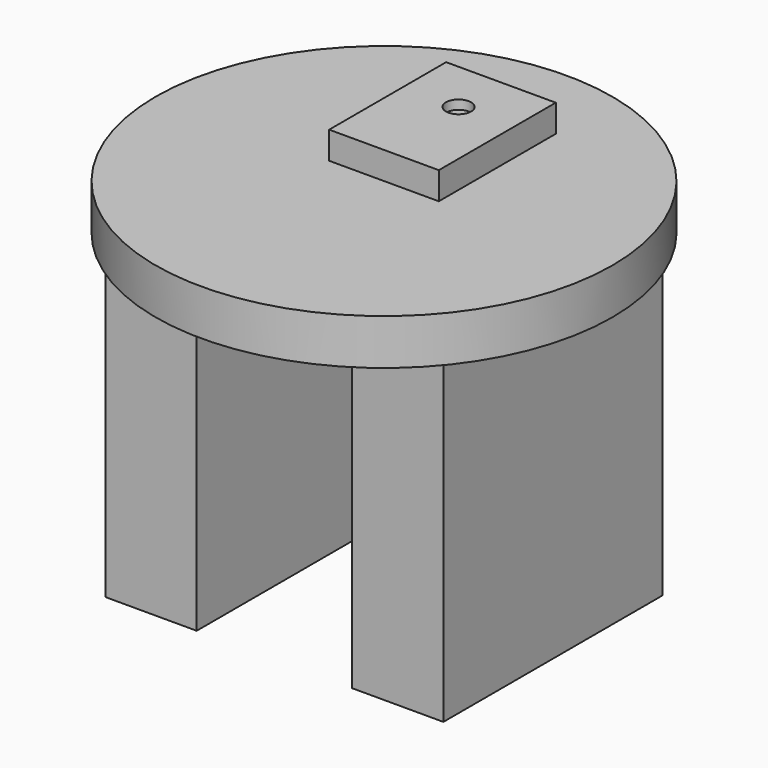
from build123d import *

# Parameters (mm, degrees)
F0_R     = 6.35
F1_DEPTH = 1.27
F2_W     = 3.048
F2_H     = 4.064
F3_DEPTH = 0.762
F4_R     = 0.34925
F5_DEPTH = 0.254
F6_W     = 2.54
F6_H     = 7.62
F7_DEPTH = 8.89


with BuildPart() as f1:
    # F0 (on Top) → F1 (new body)
    with BuildSketch(Plane.XY):
        Circle(F0_R)
    extrude(amount=F1_DEPTH)

    # F2 (on face) → F3 (join)
    with BuildSketch(Plane.XY.offset(1.27)):
        with Locations((0, 2.032)):
            Rectangle(F2_W, F2_H)
    extrude(amount=F3_DEPTH)

    # F4 (on face) → F5 (cut)
    with BuildSketch(Plane.XY.offset(2.032)):
        with Locations((0, 2.5908)):
            Circle(F4_R)
    extrude(amount=-F5_DEPTH, mode=Mode.SUBTRACT)

    # F6 (on face) → F7 (join)
    with BuildSketch(Plane(origin=(0, 0, 0), x_dir=(1, 0, 0), z_dir=(0, 0, -1))):
        with Locations((-3.429, 0)):
            Rectangle(F6_W, F6_H)
    extrude(amount=F7_DEPTH)

    # F8: F1 across plane


with BuildPart() as f1_1:
    add(f1.part)
    add(f1.part.mirror(Plane.YZ))


solid = f1_1.part
